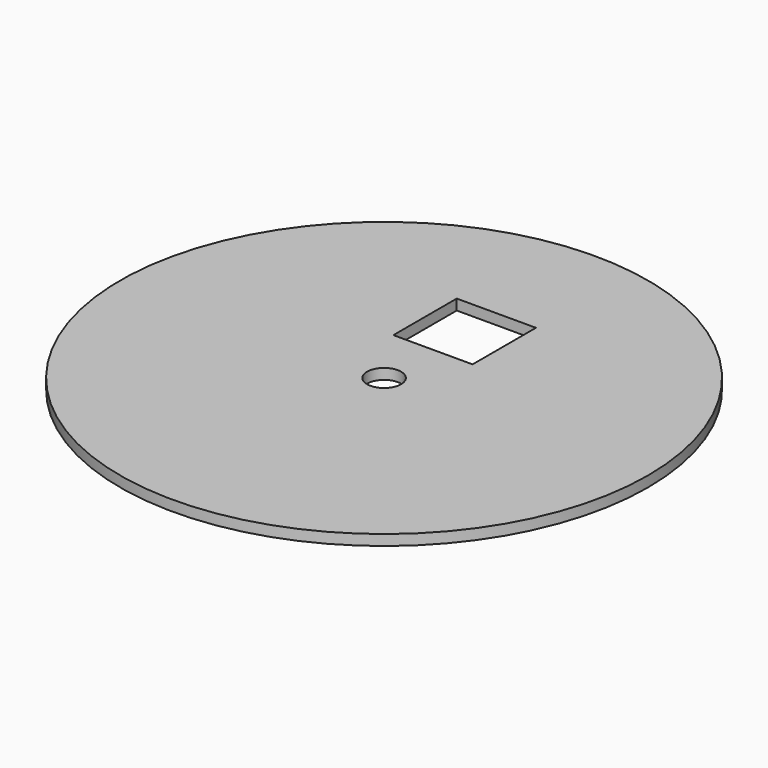
from build123d import *

# Parameters (mm, degrees)
F0_R     = 63.5
F1_DEPTH = 2.54
F2_R     = 4.09365
F3_DEPTH = 25.4
F4_DEPTH = 25.4
F5_W     = 19.05
F5_H     = 19.05
F6_DEPTH = 25.4


with BuildPart() as f1:
    # F0 (on Top) → F1 (new body)
    with BuildSketch(Plane.XY):
        Circle(F0_R)
    extrude(amount=F1_DEPTH)

    # F2 (on Top) → F3 (cut)
    with BuildSketch(Plane.XY):
        Circle(F2_R)
    extrude(amount=-F3_DEPTH, mode=Mode.SUBTRACT)

    # F2 (on Top) → F4 (cut)
    with BuildSketch(Plane.XY):
        Circle(F2_R)
    extrude(amount=F4_DEPTH, mode=Mode.SUBTRACT)

    # F5 (on Top) → F6 (cut)
    with BuildSketch(Plane.XY):
        with Locations((0, 24.230285)):
            Rectangle(F5_W, F5_H)
    extrude(amount=F6_DEPTH, mode=Mode.SUBTRACT)


solid = f1.part
